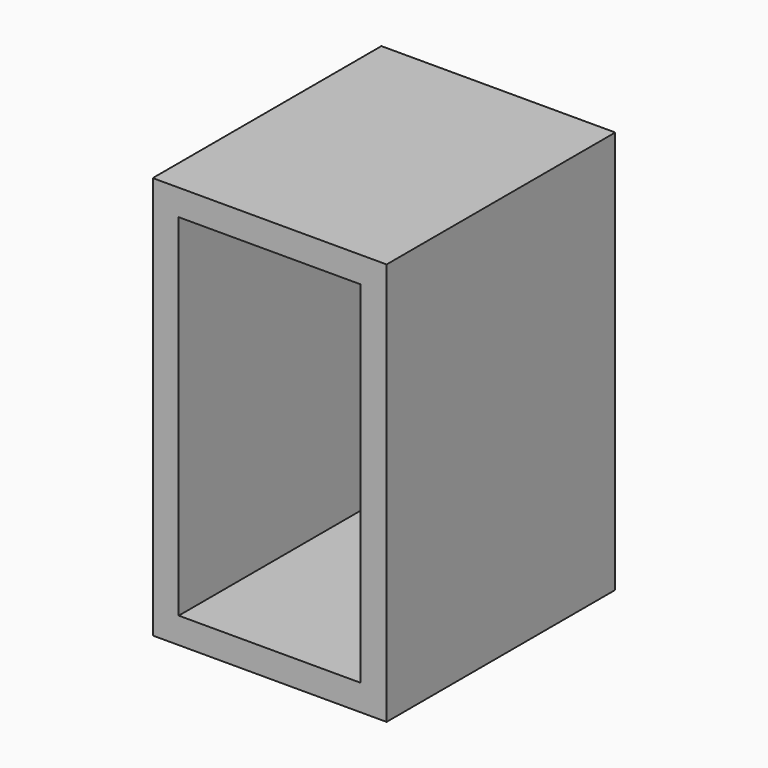
from build123d import *

# Parameters (mm, degrees)
F0_R     = 117.475
F1_DEPTH = 596.9
F2_W     = 355.6
F2_H     = 685.8
F3_DEPTH = 558.8


with BuildPart() as f1:
    # F0 (on Top) → F1 (new body)
    with BuildSketch(Plane.XY):
        Circle(F0_R)
    extrude(amount=F1_DEPTH)

    # F2 (on Front) → F3 (join)
    with BuildSketch(Plane.XZ):
        Polygon((208.986691, -50.8), (208.986691, 0), (208.986691, 736.6), (-248.213309, 736.6), (-248.213309, -50.8), align=None)
        with Locations((-19.613309, 342.9)):
            Rectangle(F2_W, F2_H, mode=Mode.SUBTRACT)
    extrude(amount=F3_DEPTH)


solid = f1.part
